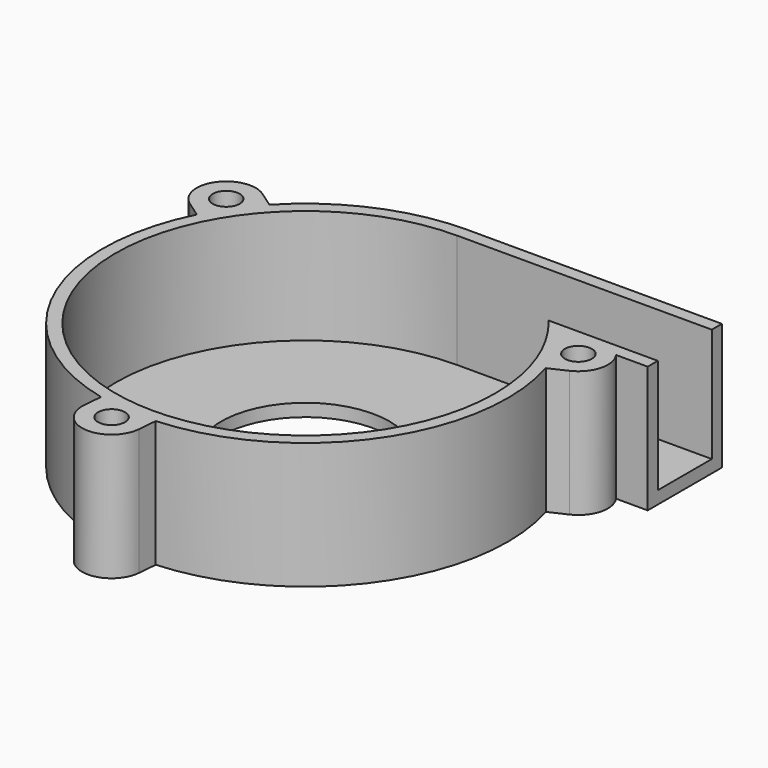
from build123d import *

# Parameters (mm, degrees)
PAD_DEPTH             = 15
POCKET_DEPTH          = 13.5
PAD001_DEPTH          = 15
POLARPATTERN_COUNT    = 3
SKETCH008_R           = 1.6
POCKET001_DEPTH       = 15
POLARPATTERN001_COUNT = 3
SKETCH009_R           = 10
POCKET002_DEPTH       = 5


with BuildPart() as part:
    # Sketch → Pad (new body)
    with BuildSketch(Plane.XY):
        with BuildLine():
            ThreePointArc((0, 24), (-11.489125, -21.071308), (20.174241, 13))
            Line((30.174241, 13), (20.174241, 13))
            Line((30.174241, 24), (30.174241, 13))
            Line((0, 24), (30.174241, 24))
        make_face()
    extrude(amount=PAD_DEPTH)

    # Sketch001 → Pocket (cut)
    with BuildSketch(Plane.XY.offset(15)):
        with BuildLine():
            ThreePointArc((0, 22.5), (-9.486833, -20.402206), (17.204651, 14.5))
            Line((30.174241, 14.5), (17.204651, 14.5))
            Line((30.174241, 22.5), (30.174241, 14.5))
            Line((0, 22.5), (30.174241, 22.5))
        make_face()
    extrude(amount=-POCKET_DEPTH, mode=Mode.SUBTRACT)

    # Sketch007 → Pad001 (new body)
    with BuildSketch(Plane.XY.offset(15)):
        with BuildLine():
            ThreePointArc((25.039208, 7.828671), (26.72977, 12.480769), (22.07767, 14.171327))
            Line((18.658172, 12.574682), (22.07767, 14.171327))
            ThreePointArc((21.61971, 6.232025), (20.38711, 9.519229), (18.658172, 12.574682))
            Line((21.61971, 6.232025), (25.039208, 7.828671))
        make_face()
    pad001 = extrude(amount=-PAD001_DEPTH)

    # PolarPattern: Pad001 ×3 about axis
    polarpattern_axis = Axis((0, 0, 15), (0, 0, 1))
    for i in range(1, POLARPATTERN_COUNT):
        add(pad001.rotate(polarpattern_axis, i * 360 / POLARPATTERN_COUNT))

    # Sketch008 → Pocket001 (cut)
    with BuildSketch(Plane.XY.offset(15)):
        with Locations((23.558442, 11)):
            Circle(SKETCH008_R)
    pocket001 = extrude(amount=-POCKET001_DEPTH, mode=Mode.SUBTRACT)

    # PolarPattern001: Pocket001 ×3 about axis
    polarpattern001_axis = Axis((0, 0, 15), (0, 0, 1))
    for i in range(1, POLARPATTERN001_COUNT):
        add(pocket001.rotate(polarpattern001_axis, i * 360 / POLARPATTERN001_COUNT), mode=Mode.SUBTRACT)

    # Sketch009 → Pocket002 (cut)
    with BuildSketch(Plane(origin=(0, 0, 0), x_dir=(1, 0, 0), z_dir=(0, 0, -1))):
        Circle(SKETCH009_R)
    extrude(amount=-POCKET002_DEPTH, mode=Mode.SUBTRACT)


solid = part.part
